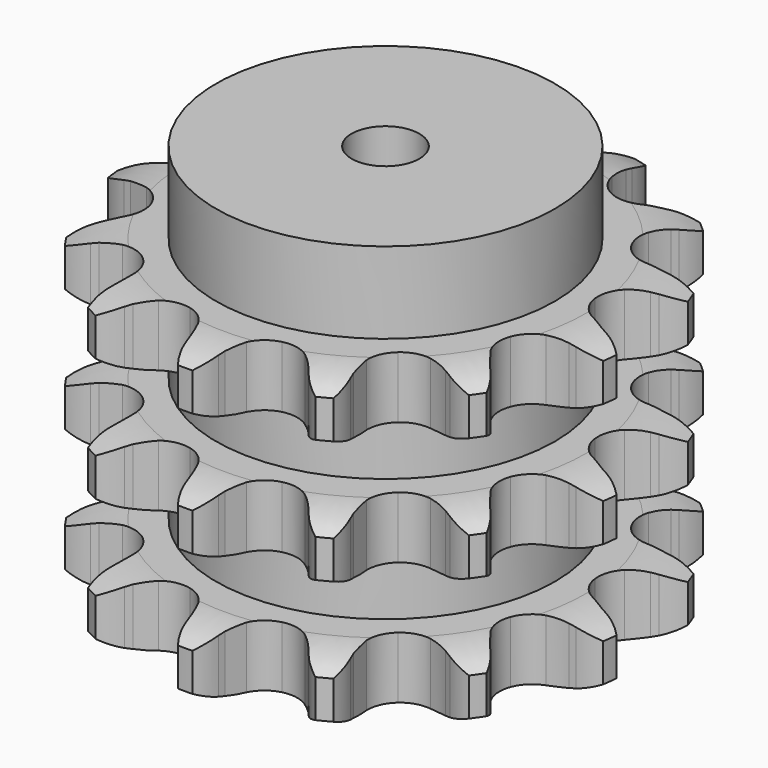
from build123d import *

# Parameters (mm, degrees)
PAD_DEPTH         = 91
SKETCH001_R       = 50
PAD001_DEPTH      = 115
SKETCH002_R       = 10
POCKET_DEPTH      = 0.001
POCKET_DEPTH_BACK = 115.001


with BuildPart() as part:
    # Sprocket → Pad (new body)
    with BuildSketch(Plane.XY):
        with BuildLine():
            ThreePointArc((-18.251565, 74.04951), (-14.307053, 71.037063), (-11.472625, 66.96275))
            Line((-11.472625, 66.96275), (-10.610276, 65.188631))
            ThreePointArc((-10.610276, 65.188631), (-9.155903, 62.601853), (-7.403546, 60.206886))
            ThreePointArc((-7.403546, 60.206886), (-4.09088, 57.638388), (0, 56.724256))
            ThreePointArc((0, 56.724256), (4.09088, 57.638388), (7.403546, 60.206886))
            ThreePointArc((7.403546, 60.206886), (9.155903, 62.601853), (10.610276, 65.188631))
            Line((10.610276, 65.188631), (11.472625, 66.96275))
            ThreePointArc((11.472625, 66.96275), (14.307053, 71.037063), (18.251565, 74.04951))
            ThreePointArc((18.251565, 74.04951), (20.344303, 69.549014), (20.960636, 64.624165))
            Line((20.960636, 64.624165), (20.899734, 62.652507))
            ThreePointArc((20.899734, 62.652507), (20.985382, 59.686148), (21.424021, 56.751149))
            ThreePointArc((21.424021, 56.751149), (23.1636, 52.937384), (26.361076, 50.226834))
            ThreePointArc((26.361076, 50.226834), (30.408189, 49.135131), (34.535049, 49.869951))
            Line((34.535049, 49.869951), (39.6896, 52.790825))
            ThreePointArc((39.6896, 52.790825), (40.472008, 53.391663), (41.277647, 53.960976))
            ThreePointArc((41.277647, 53.960976), (45.680836, 56.251376), (50.573481, 57.085659))
            ThreePointArc((50.573481, 57.085659), (50.335024, 52.128125), (48.592069, 47.480963))
            Line((48.592069, 47.480963), (47.621868, 45.763449))
            ThreePointArc((47.621868, 45.763449), (46.319169, 43.097066), (45.343602, 40.294408))
            ThreePointArc((45.343602, 40.294408), (45.111578, 36.109064), (46.683147, 32.22305))
            ThreePointArc((46.683147, 32.22305), (49.759348, 29.375608), (53.754989, 28.108411))
            Line((53.754989, 28.108411), (59.676516, 28.299277))
            ThreePointArc((59.676516, 28.299277), (60.648527, 28.46769), (61.626457, 28.597392))
            ThreePointArc((61.626457, 28.597392), (66.589689, 28.579177), (71.309622, 27.044173))
            ThreePointArc((71.309622, 27.044173), (68.794598, 22.76531), (65.091644, 19.460444))
            Line((65.091644, 19.460444), (63.434405, 18.390537))
            ThreePointArc((63.434405, 18.390537), (61.041793, 16.634966), (58.875511, 14.606704))
            ThreePointArc((58.875511, 14.606704), (56.725038, 11.008593), (56.310672, 6.837353))
            ThreePointArc((56.310672, 6.837353), (57.71124, 2.886487), (60.660309, -0.092427))
            Line((60.660309, -0.092427), (65.99226, -2.675294))
            ThreePointArc((65.99226, -2.675294), (66.931199, -2.977888), (67.857388, -3.317509))
            ThreePointArc((67.857388, -3.317509), (72.243647, -5.640167), (75.709588, -9.192808))
            ThreePointArc((75.709588, -9.192808), (71.494159, -11.812763), (66.679508, -13.018227))
            Line((66.679508, -13.018227), (64.714885, -13.195427))
            ThreePointArc((64.714885, -13.195427), (61.780477, -13.638005), (58.91975, -14.427221))
            ThreePointArc((58.91975, -14.427221), (55.343475, -16.613815), (53.038101, -20.114698))
            ThreePointArc((53.038101, -20.114698), (52.442182, -24.263893), (53.669083, -28.272091))
            Line((53.669083, -28.272091), (57.189973, -33.036988))
            ThreePointArc((57.189973, -33.036988), (57.88074, -33.741268), (58.54301, -34.472409))
            ThreePointArc((58.54301, -34.472409), (61.347457, -38.567417), (62.7654, -43.323828))
            ThreePointArc((62.7654, -43.323828), (57.815269, -43.684674), (52.9919, -42.51458))
            Line((52.9919, -42.51458), (51.169964, -41.758476))
            ThreePointArc((51.169964, -41.758476), (48.365999, -40.786673), (45.466184, -40.156042))
            ThreePointArc((45.466184, -40.156042), (41.283389, -40.430197), (37.615139, -42.458715))
            ThreePointArc((37.615139, -42.458715), (35.159253, -45.855708), (34.382917, -49.97496))
            Line((34.382917, -49.97496), (35.286153, -55.830306))
            ThreePointArc((35.286153, -55.830306), (35.570501, -56.77493), (35.817133, -57.730096))
            ThreePointArc((35.817133, -57.730096), (36.397303, -62.659336), (35.442415, -67.52988))
            ThreePointArc((35.442415, -67.52988), (30.891598, -65.548953), (27.164486, -62.271355))
            Line((27.164486, -62.271355), (25.902621, -60.755163))
            ThreePointArc((25.902621, -60.755163), (23.871453, -58.591606), (21.596863, -56.685599))
            ThreePointArc((21.596863, -56.685599), (17.765776, -54.984509), (13.575003, -55.075952))
            ThreePointArc((13.575003, -55.075952), (9.821762, -56.942532), (7.220039, -60.229168))
            Line((7.220039, -60.229168), (5.2987, -65.833573))
            ThreePointArc((5.2987, -65.833573), (5.111488, -66.80214), (4.885983, -67.762513))
            ThreePointArc((4.885983, -67.762513), (3.108966, -72.396757), (0, -76.265651))
            ThreePointArc((0, -76.265651), (-3.108966, -72.396757), (-4.885983, -67.762513))
            Line((-4.885983, -67.762513), (-5.2987, -65.833573))
            ThreePointArc((-5.2987, -65.833573), (-6.091755, -62.973908), (-7.220039, -60.229168))
            ThreePointArc((-7.220039, -60.229168), (-9.821762, -56.942532), (-13.575003, -55.075952))
            ThreePointArc((-13.575003, -55.075952), (-17.765776, -54.984509), (-21.596863, -56.685599))
            Line((-21.596863, -56.685599), (-25.902621, -60.755163))
            ThreePointArc((-25.902621, -60.755163), (-26.518504, -61.525784), (-27.164486, -62.271355))
            ThreePointArc((-27.164486, -62.271355), (-30.891598, -65.548953), (-35.442415, -67.52988))
            ThreePointArc((-35.442415, -67.52988), (-36.397303, -62.659336), (-35.817133, -57.730096))
            Line((-35.817133, -57.730096), (-35.286153, -55.830306))
            ThreePointArc((-35.286153, -55.830306), (-34.659415, -52.929646), (-34.382917, -49.97496))
            ThreePointArc((-34.382917, -49.97496), (-35.159253, -45.855708), (-37.615139, -42.458715))
            ThreePointArc((-37.615139, -42.458715), (-41.283389, -40.430197), (-45.466184, -40.156042))
            Line((-45.466184, -40.156042), (-51.169964, -41.758476))
            ThreePointArc((-51.169964, -41.758476), (-52.073427, -42.154613), (-52.9919, -42.51458))
            ThreePointArc((-52.9919, -42.51458), (-57.815269, -43.684674), (-62.7654, -43.323828))
            ThreePointArc((-62.7654, -43.323828), (-61.347457, -38.567417), (-58.54301, -34.472409))
            Line((-58.54301, -34.472409), (-57.189973, -33.036988))
            ThreePointArc((-57.189973, -33.036988), (-55.287021, -30.759841), (-53.669083, -28.272091))
            ThreePointArc((-53.669083, -28.272091), (-52.442182, -24.263893), (-53.038101, -20.114698))
            ThreePointArc((-53.038101, -20.114698), (-55.343475, -16.613815), (-58.91975, -14.427221))
            Line((-58.91975, -14.427221), (-64.714885, -13.195427))
            ThreePointArc((-64.714885, -13.195427), (-65.698955, -13.126328), (-66.679508, -13.018227))
            ThreePointArc((-66.679508, -13.018227), (-71.494159, -11.812763), (-75.709588, -9.192808))
            ThreePointArc((-75.709588, -9.192808), (-72.243647, -5.640167), (-67.857388, -3.317509))
            Line((-67.857388, -3.317509), (-65.99226, -2.675294))
            ThreePointArc((-65.99226, -2.675294), (-63.249037, -1.543326), (-60.660309, -0.092427))
            ThreePointArc((-60.660309, -0.092427), (-57.71124, 2.886487), (-56.310672, 6.837353))
            ThreePointArc((-56.310672, 6.837353), (-56.725038, 11.008593), (-58.875511, 14.606704))
            Line((-58.875511, 14.606704), (-63.434405, 18.390537))
            ThreePointArc((-63.434405, 18.390537), (-64.273645, 18.90904), (-65.091644, 19.460444))
            ThreePointArc((-65.091644, 19.460444), (-68.794598, 22.76531), (-71.309622, 27.044173))
            ThreePointArc((-71.309622, 27.044173), (-66.589689, 28.579177), (-61.626457, 28.597392))
            Line((-61.626457, 28.597392), (-59.676516, 28.299277))
            ThreePointArc((-59.676516, 28.299277), (-56.721461, 28.026745), (-53.754989, 28.108411))
            ThreePointArc((-53.754989, 28.108411), (-49.759348, 29.375608), (-46.683147, 32.22305))
            ThreePointArc((-46.683147, 32.22305), (-45.111578, 36.109064), (-45.343602, 40.294408))
            Line((-45.343602, 40.294408), (-47.621868, 45.763449))
            ThreePointArc((-47.621868, 45.763449), (-48.124017, 46.612576), (-48.592069, 47.480963))
            ThreePointArc((-48.592069, 47.480963), (-50.335024, 52.128125), (-50.573481, 57.085659))
            ThreePointArc((-50.573481, 57.085659), (-45.680836, 56.251376), (-41.277647, 53.960976))
            Line((-41.277647, 53.960976), (-39.6896, 52.790825))
            ThreePointArc((-39.6896, 52.790825), (-37.199681, 51.176228), (-34.535049, 49.869951))
            ThreePointArc((-34.535049, 49.869951), (-30.408189, 49.135131), (-26.361076, 50.226834))
            ThreePointArc((-26.361076, 50.226834), (-23.1636, 52.937384), (-21.424021, 56.751149))
            Line((-21.424021, 56.751149), (-20.899734, 62.652507))
            ThreePointArc((-20.899734, 62.652507), (-20.949756, 63.637732), (-20.960636, 64.624165))
            ThreePointArc((-20.960636, 64.624165), (-20.344303, 69.549014), (-18.251565, 74.04951))
        make_face()
    extrude(amount=PAD_DEPTH)

    # Sketch → Groove (revolve, cut)
    with BuildSketch(Plane.XZ):
        with BuildLine():
            ThreePointArc((59.348368, 0), (66.831683, 0.887302), (73.9, 3.5))
            Line((73.9, 3.5), (73.9, 14.7))
            ThreePointArc((73.9, 14.7), (66.831683, 17.312698), (59.348368, 18.2))
            Line((50, 18.2), (59.348368, 18.2))
            Line((50, 18.2), (50, 36.4))
            Line((50, 36.4), (59.348368, 36.4))
            ThreePointArc((59.348368, 36.4), (66.831683, 37.287302), (73.9, 39.9))
            Line((73.9, 51.1), (73.9, 39.9))
            ThreePointArc((73.9, 51.1), (66.831683, 53.712698), (59.348368, 54.6))
            Line((50, 54.6), (59.348368, 54.6))
            Line((50, 72.8), (50, 54.6))
            Line((59.348368, 72.8), (50, 72.8))
            ThreePointArc((59.348368, 72.8), (66.831683, 73.687302), (73.9, 76.3))
            Line((73.9, 76.3), (73.9, 87.5))
            ThreePointArc((73.9, 87.5), (66.831683, 90.112698), (59.348368, 91))
            Line((59.348368, 91), (83.9, 91))
            Line((83.9, 91), (83.9, 0))
            Line((59.348368, 0), (83.9, 0))
        make_face()
    revolve(axis=Axis((0, 0, 0), (0, 0, 1)), mode=Mode.SUBTRACT)

    # Sketch001 → Pad001 (join)
    with BuildSketch(Plane.XY):
        Circle(SKETCH001_R)
    extrude(amount=PAD001_DEPTH)

    # Sketch002 → Pocket (cut, two sides)
    with BuildSketch(Plane.XY) as pocket_sk:
        Circle(SKETCH002_R)
    extrude(amount=-POCKET_DEPTH, mode=Mode.SUBTRACT)
    extrude(pocket_sk.sketch, amount=POCKET_DEPTH_BACK, mode=Mode.SUBTRACT)


solid = part.part
